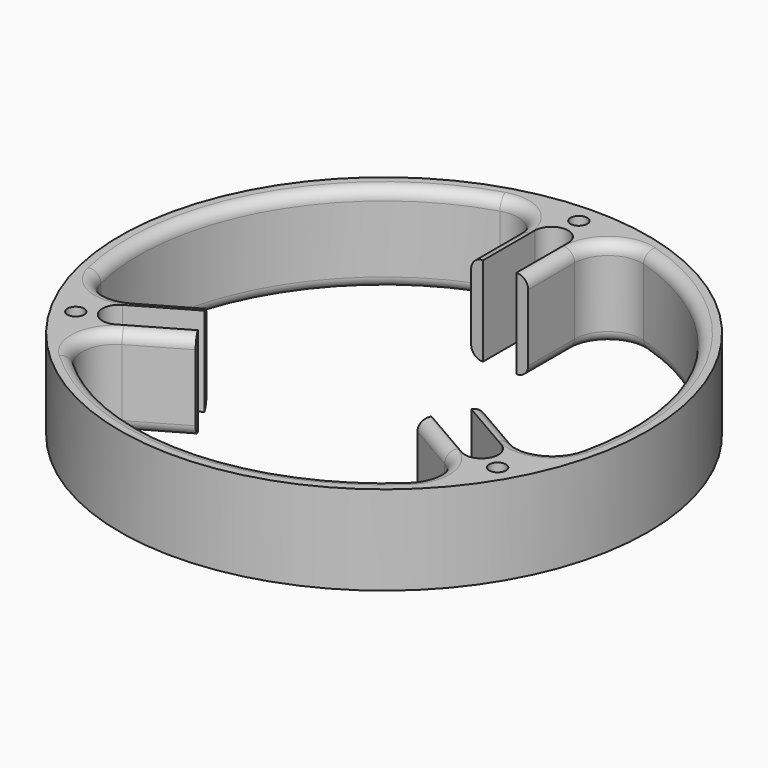
from build123d import *

# Parameters (mm, degrees)
F0_R     = 75.1586
F0_R_2   = 2.38125
F1_DEPTH = 25.4
F2_R     = 3.175


with BuildPart() as f1:
    # F0 (on Top) → F1 (new body)
    with BuildSketch(Plane.XY):
        Circle(F0_R)
        with Locations((-60.051934, -34.671)):
            Circle(F0_R_2, mode=Mode.SUBTRACT)
        with BuildLine():
            ThreePointArc((-68.06056, -15.709319), (-60.491874, 34.925), (-20.425611, 66.796833))
            ThreePointArc((-20.425611, 66.796833), (-11.974811, 65.345057), (-8.1153, 57.688174))
            Line((-8.1153, 57.688174), (-8.1153, 41.148))
            Line((-8.1153, 41.148), (-4.7625, 41.148))
            Line((-4.7625, 41.148), (-4.7625, 59.5884))
            ThreePointArc((-4.7625, 59.5884), (0, 64.3509), (4.7625, 59.5884))
            Line((4.7625, 59.5884), (4.7625, 41.148))
            Line((4.7625, 41.148), (8.1153, 41.148))
            Line((8.1153, 41.148), (8.1153, 57.688174))
            ThreePointArc((8.1153, 57.688174), (11.974811, 65.345057), (20.425611, 66.796833))
            ThreePointArc((20.425611, 66.796833), (60.491874, 34.925), (68.06056, -15.709319))
            ThreePointArc((68.06056, -15.709319), (62.577885, -22.302038), (54.017074, -21.816031))
            Line((54.017074, -21.816031), (39.692863, -13.545944))
            Line((39.692863, -13.545944), (38.016463, -16.449554))
            Line((38.016463, -16.449554), (53.986318, -25.669754))
            ThreePointArc((53.986318, -25.669754), (55.729514, -32.17545), (49.223818, -33.918646))
            Line((49.223818, -33.918646), (33.253963, -24.698446))
            Line((33.253963, -24.698446), (31.577563, -27.602056))
            Line((31.577563, -27.602056), (45.901774, -35.872143))
            ThreePointArc((45.901774, -35.872143), (50.603074, -43.043019), (47.634949, -51.087514))
            ThreePointArc((47.634949, -51.087514), (0, -69.85), (-47.634949, -51.087514))
            ThreePointArc((-47.634949, -51.087514), (-50.603074, -43.043019), (-45.901774, -35.872143))
            Line((-45.901774, -35.872143), (-31.577563, -27.602056))
            Line((-31.577563, -27.602056), (-33.253963, -24.698446))
            Line((-33.253963, -24.698446), (-49.223818, -33.918646))
            ThreePointArc((-49.223818, -33.918646), (-55.729514, -32.17545), (-53.986318, -25.669754))
            Line((-53.986318, -25.669754), (-38.016463, -16.449554))
            Line((-38.016463, -16.449554), (-39.692863, -13.545944))
            Line((-39.692863, -13.545944), (-54.017074, -21.816031))
            ThreePointArc((-54.017074, -21.816031), (-62.577885, -22.302038), (-68.06056, -15.709319))
        make_face(mode=Mode.SUBTRACT)
        with Locations((60.051934, -34.671)):
            Circle(F0_R_2, mode=Mode.SUBTRACT)
        with Locations((0, 69.342)):
            Circle(F0_R_2, mode=Mode.SUBTRACT)
    extrude(amount=-F1_DEPTH)

    # F2
    f2_edges = [f1.edges().sort_by_distance(p)[0] for p in [
        (-60.491874, 34.925, 0),
        (11.974811, 65.345057, 0),
        (0, -69.85, 0),
        (-60.491874, 34.925, -25.4),
        (0, -69.85, -25.4),
        (60.491874, 34.925, -25.4),
    ]]
    fillet(f2_edges, radius=F2_R)


solid = f1.part
